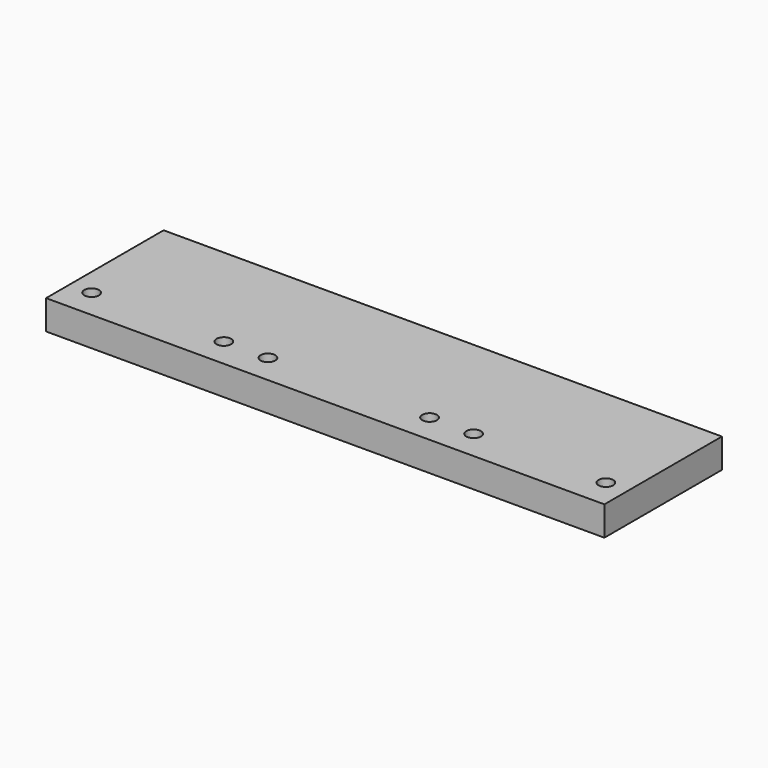
from build123d import *

# Parameters (mm, degrees)
SKETCH_W               = 190
SKETCH_H               = 50
PAD_DEPTH              = 10
SKETCH001_R            = 2.5
HOLE_DEPTH             = 10.001
LINEARPATTERN_COUNT    = 2
LINEARPATTERN_PITCH    = 45
LINEARPATTERN001_COUNT = 2
LINEARPATTERN001_PITCH = 60
LINEARPATTERN002_COUNT = 2
LINEARPATTERN002_PITCH = 115
LINEARPATTERN003_COUNT = 2
LINEARPATTERN003_PITCH = 130
LINEARPATTERN004_COUNT = 2
LINEARPATTERN004_PITCH = 175


with BuildPart() as part:
    # Sketch → Pad (new body)
    with BuildSketch(Plane.XY):
        with Locations((95, 25)):
            Rectangle(SKETCH_W, SKETCH_H)
    extrude(amount=PAD_DEPTH)

    # Sketch001 (on Face6 of Pad) → Hole (cut, through all)
    with BuildSketch(Plane.XY.offset(10)):
        with Locations((7.5, 10)):
            Circle(SKETCH001_R)
    hole = extrude(amount=-HOLE_DEPTH, mode=Mode.SUBTRACT)

    # LinearPattern: Hole ×2
    with Locations(*[(i * LINEARPATTERN_PITCH, 0, 0) for i in range(1, LINEARPATTERN_COUNT)]):
        add(hole, mode=Mode.SUBTRACT)

    # LinearPattern001: Hole ×2
    with Locations(*[(i * LINEARPATTERN001_PITCH, 0, 0) for i in range(1, LINEARPATTERN001_COUNT)]):
        add(hole, mode=Mode.SUBTRACT)

    # LinearPattern002: Hole ×2
    with Locations(*[(i * LINEARPATTERN002_PITCH, 0, 0) for i in range(1, LINEARPATTERN002_COUNT)]):
        add(hole, mode=Mode.SUBTRACT)

    # LinearPattern003: Hole ×2
    with Locations(*[(i * LINEARPATTERN003_PITCH, 0, 0) for i in range(1, LINEARPATTERN003_COUNT)]):
        add(hole, mode=Mode.SUBTRACT)

    # LinearPattern004: Hole ×2
    with Locations(*[(i * LINEARPATTERN004_PITCH, 0, 0) for i in range(1, LINEARPATTERN004_COUNT)]):
        add(hole, mode=Mode.SUBTRACT)


solid = part.part
